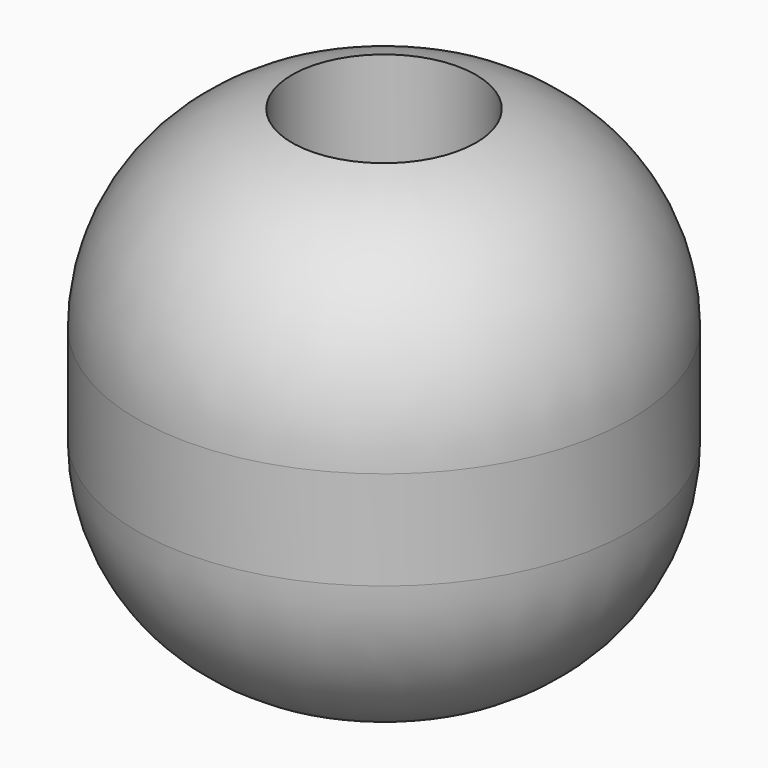
from build123d import *

# Parameters (mm, degrees)
F0_R     = 10
F1_DEPTH = 20
F2_R     = 8
F3_R     = 3.725
F3_R_2   = 2
F4_DEPTH = 20.1


with BuildPart() as f1:
    # F0 (on Top) → F1 (new body)
    with BuildSketch(Plane.XY):
        Circle(F0_R)
    extrude(amount=F1_DEPTH)

    # F2
    f2_edges = [f1.edges().sort_by_distance(p)[0] for p in [
        (-10, 0, 20),
        (-10, 0, 0),
    ]]
    fillet(f2_edges, radius=F2_R)

    # F3 (on face) → F4 (cut)
    with BuildSketch(Plane.XY.offset(20)):
        Circle(F3_R)
        Circle(F3_R_2, mode=Mode.SUBTRACT)
        Circle(F3_R_2)
    extrude(amount=-F4_DEPTH, mode=Mode.SUBTRACT)


solid = f1.part
